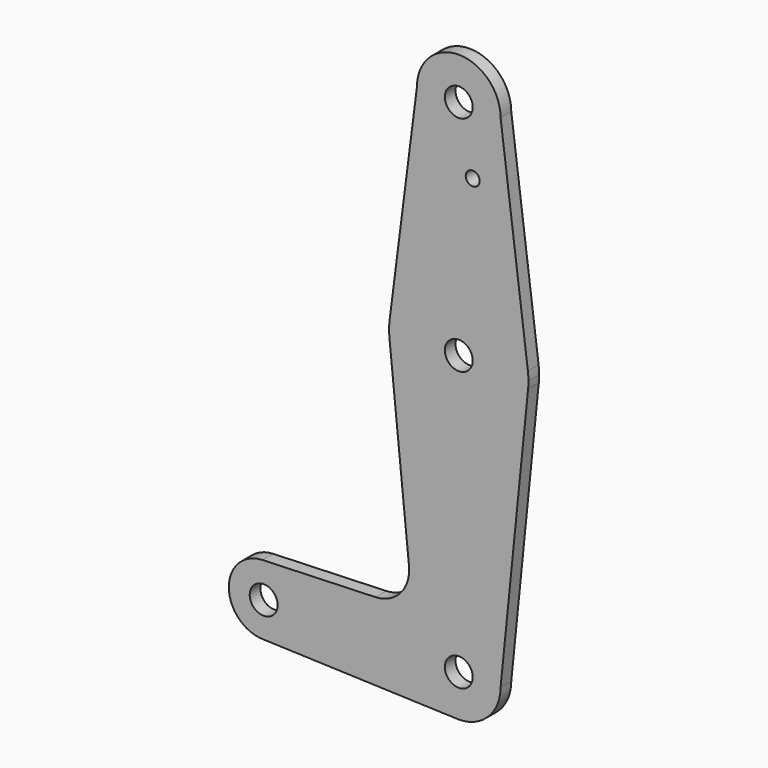
from build123d import *

# Parameters (mm, degrees)
F0_R     = 3.175
F0_R_2   = 1.5875
F1_DEPTH = 3.048


with BuildPart() as f1:
    # F0 (on Front) → F1 (new body)
    with BuildSketch(Plane.XZ):
        with BuildLine():
            ThreePointArc((-15.795426, 61.9125), (-0.006091, 47.625001), (15.794203, 61.90038))
            ThreePointArc((15.794203, 61.90038), (15.854788, 62.699171), (15.875, 63.5))
            ThreePointArc((15.875, 63.5), (15.843082, 64.506168), (15.747457, 65.508289))
            ThreePointArc((15.747457, 65.508289), (0, 79.375), (-15.747457, 65.508289))
            ThreePointArc((-15.747457, 65.508289), (-15.873588, 63.711757), (-15.795426, 61.9125))
        make_face()
        with Locations((0, 63.5)):
            Circle(F0_R, mode=Mode.SUBTRACT)
        with BuildLine():
            ThreePointArc((-0.67949, -9.500732), (-6.490511, 6.97129), (9.525, 0))
            Line((9.525, 0), (15.794203, 61.90038))
            ThreePointArc((15.794203, 61.90038), (-0.006091, 47.625001), (-15.795426, 61.9125))
            Line((-15.795426, 61.9125), (-11.341187, 17.593382))
            ThreePointArc((-11.341187, 17.593382), (-13.2612, 11.571359), (-18.9676, 8.853234))
            Line((-18.9676, 8.853234), (-44.733482, 7.932436))
            ThreePointArc((-44.733482, 7.932436), (-38.938477, 5.712007), (-36.5125, 0))
            ThreePointArc((-36.5125, 0), (-38.83734, -5.61266), (-44.45, -7.9375))
            Line((-44.45, -7.9375), (-0.67949, -9.500732))
        make_face()
        with BuildLine():
            Line((-9.525, 114.3), (-15.747457, 65.508289))
            ThreePointArc((-15.747457, 65.508289), (0, 79.375), (15.747457, 65.508289))
            Line((15.747457, 65.508289), (9.525, 114.3))
            ThreePointArc((9.525, 114.3), (0, 104.775), (-9.525, 114.3))
        make_face()
        with Locations((3.175, 100.0252)):
            Circle(F0_R_2, mode=Mode.SUBTRACT)
        with BuildLine():
            ThreePointArc((9.525, 114.3), (0, 123.825), (-9.525, 114.3))
            ThreePointArc((-9.525, 114.3), (0, 104.775), (9.525, 114.3))
        make_face()
        with Locations((0, 114.3)):
            Circle(F0_R, mode=Mode.SUBTRACT)
        with BuildLine():
            Line((-0.67949, -9.500732), (0, -9.525))
            ThreePointArc((0, -9.525), (6.735192, -6.735192), (9.525, 0))
            ThreePointArc((9.525, 0), (-6.490511, 6.97129), (-0.67949, -9.500732))
        make_face()
        Circle(F0_R, mode=Mode.SUBTRACT)
        with BuildLine():
            ThreePointArc((-44.733482, 7.932436), (-52.386234, -0.141764), (-44.45, -7.9375))
            ThreePointArc((-44.45, -7.9375), (-38.83734, -5.61266), (-36.5125, 0))
            ThreePointArc((-36.5125, 0), (-38.938477, 5.712007), (-44.733482, 7.932436))
        make_face()
        with Locations((-44.45, 0)):
            Circle(F0_R, mode=Mode.SUBTRACT)
    extrude(amount=F1_DEPTH)


solid = f1.part
